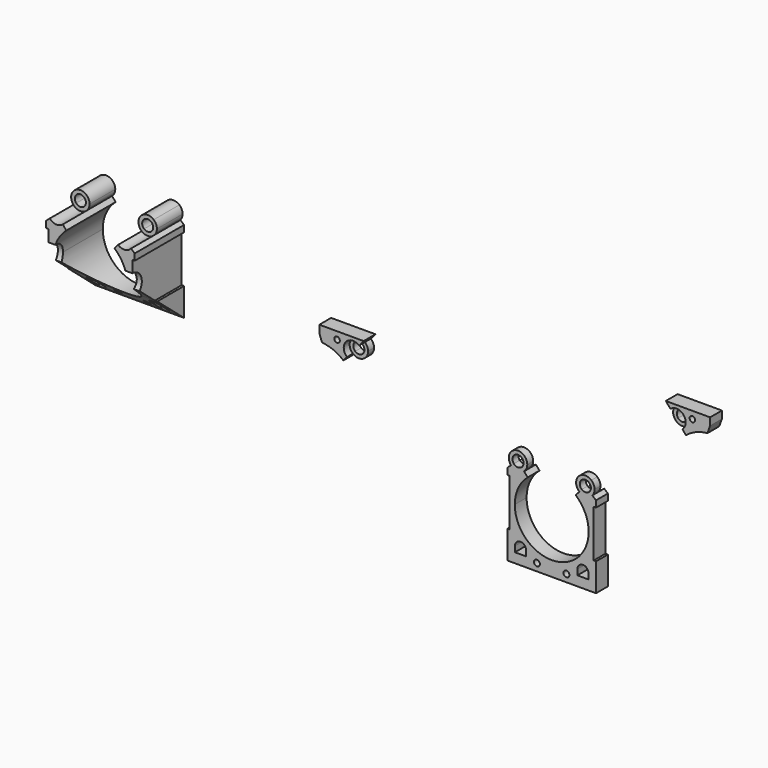
from build123d import *

# Parameters (mm, degrees)
F0_R      = 1.984375
F0_R_2    = 0.635
F1_DEPTH  = 3.175
F2_R      = 1.984375
F3_DEPTH  = 1.5875
F4_R      = 0.5953125
F5_DEPTH  = 3.175
F6_R      = 1.984375
F7_DEPTH  = 1.5875
F8_R      = 0.5953125
F9_DEPTH  = 3.175
F10_R     = 1.984375
F11_DEPTH = 1.5875
F12_R     = 1.984375
F12_R_2   = 0.635
F13_DEPTH = 25.4
F14_W     = 1.0636129141
F14_H     = 6.0325
F15_DEPTH = 25.4
F16_R     = 0.762
F17_R     = 1.984375
F18_DEPTH = 6.35
F19_R     = 1.984375
F20_DEPTH = 6.35
F21_R     = 1.984375
F21_R_2   = 0.635
F22_DEPTH = 0.254
F23_R     = 1.190625
F23_R_2   = 0.4997959343
F24_DEPTH = 25.4
F26_DEPTH = 25.4


with BuildPart() as f1:
    # F0 (on Front) → F1 (new body)
    with BuildSketch(Plane.XZ):
        with BuildLine():
            ThreePointArc((5.1656565268, 6.0265992813), (7.2113211318, 3.3167384257), (7.9375, 0))
            Line((7.9375, 0), (9.017, 0))
            Line((9.017, 0), (9.017, 5.08))
            Line((9.017, 5.08), (9.525, 5.08))
            Line((9.525, 5.08), (9.525, 6.4717411117))
            Line((9.525, 6.4717411117), (8.7385689578, 7.1458248621))
            ThreePointArc((8.7385689578, 7.1458248621), (7.3841137525, 6.4587089991), (5.9405050058, 6.9305891735))
            Line((5.9405050058, 6.9305891735), (5.1656565268, 6.0265992813))
        make_face()
        with BuildLine():
            ThreePointArc((-7.9375, 0), (-7.2113211318, 3.3167384257), (-5.1656565268, 6.0265992813))
            Line((-5.1656565268, 6.0265992813), (-5.9405050058, 6.9305891735))
            ThreePointArc((-5.9405050058, 6.9305891735), (-7.3841137525, 6.4587089991), (-8.7385689578, 7.1458248621))
            Line((-8.7385689578, 7.1458248621), (-9.525, 6.4717411117))
            Line((-9.525, 6.4717411117), (-9.525, 5.08))
            Line((-9.525, 5.08), (-9.017, 5.08))
            Line((-9.017, 5.08), (-9.017, 0))
            Line((-9.017, 0), (-7.9375, 0))
        make_face()
        with BuildLine():
            ThreePointArc((7.9375, 0), (0, -7.9375), (-7.9375, 0))
            Line((-7.9375, 0), (-9.017, 0))
            Line((-9.017, 0), (-9.017, -5.08))
            Line((-9.017, -5.08), (-9.525, -5.08))
            Line((-9.525, -5.08), (-9.525, -11.1125))
            Line((-9.525, -11.1125), (9.525, -11.1125))
            Line((9.525, -11.1125), (9.525, -5.08))
            Line((9.525, -5.08), (9.017, -5.08))
            Line((9.017, -5.08), (9.017, 0))
            Line((9.017, 0), (7.9375, 0))
        make_face()
        with Locations((-6.7153534848, -7.8345790657)):
            Circle(F0_R, mode=Mode.SUBTRACT)
        with Locations((-3.175, -9.525)):
            Circle(F0_R_2, mode=Mode.SUBTRACT)
        with Locations((3.175, -9.525)):
            Circle(F0_R_2, mode=Mode.SUBTRACT)
        with Locations((6.7153534848, -7.8345790657)):
            Circle(F0_R, mode=Mode.SUBTRACT)
        with BuildLine():
            ThreePointArc((9.2162941375, 8.4372389938), (9.0347494205, 9.2664236002), (8.5233332692, 9.9438888141))
            Line((8.5233332692, 9.9438888141), (8.0067676166, 9.341228886))
            ThreePointArc((8.0067676166, 9.341228886), (8.3136173073, 8.9347497576), (8.4225441375, 8.4372389938))
            ThreePointArc((8.4225441375, 8.4372389938), (8.3485884834, 8.0241561176), (8.1359090297, 7.6623905148))
            Line((8.1359090297, 7.6623905148), (8.7385689578, 7.1458248621))
            ThreePointArc((8.7385689578, 7.1458248621), (9.093034714, 7.7487675334), (9.2162941375, 8.4372389938))
        make_face()
        with BuildLine():
            ThreePointArc((8.5233332692, 9.9438888141), (5.7252693172, 9.7286531255), (5.9405050058, 6.9305891735))
            Line((5.9405050058, 6.9305891735), (6.4570706585, 7.5332491016))
            ThreePointArc((6.4570706585, 7.5332491016), (6.3279292453, 9.2120874728), (8.0067676166, 9.341228886))
            Line((8.0067676166, 9.341228886), (8.5233332692, 9.9438888141))
        make_face()
        with BuildLine():
            Line((6.4570706585, 7.5332491016), (5.9405050058, 6.9305891735))
            ThreePointArc((5.9405050058, 6.9305891735), (7.3841137525, 6.4587089991), (8.7385689578, 7.1458248621))
            Line((8.7385689578, 7.1458248621), (8.1359090297, 7.6623905148))
            ThreePointArc((8.1359090297, 7.6623905148), (7.3232359065, 7.250120997), (6.4570706585, 7.5332491016))
        make_face()
        with BuildLine():
            Line((-6.4570706585, 7.5332491016), (-5.9405050058, 6.9305891735))
            ThreePointArc((-5.9405050058, 6.9305891735), (-5.4290888546, 7.6080543874), (-5.2475441375, 8.4372389938))
            ThreePointArc((-5.2475441375, 8.4372389938), (-6.4027345311, 10.2400692767), (-8.5233332692, 9.9438888141))
            Line((-8.5233332692, 9.9438888141), (-8.0067676166, 9.341228886))
            ThreePointArc((-8.0067676166, 9.341228886), (-6.7344083737, 9.5189371636), (-6.0412941375, 8.4372389938))
            ThreePointArc((-6.0412941375, 8.4372389938), (-6.1502209678, 7.9397282299), (-6.4570706585, 7.5332491016))
        make_face()
        with BuildLine():
            ThreePointArc((-8.5233332692, 9.9438888141), (-9.2104491322, 8.5894336088), (-8.7385689578, 7.1458248621))
            Line((-8.7385689578, 7.1458248621), (-8.1359090297, 7.6623905148))
            ThreePointArc((-8.1359090297, 7.6623905148), (-8.4190371343, 8.5285557628), (-8.0067676166, 9.341228886))
            Line((-8.0067676166, 9.341228886), (-8.5233332692, 9.9438888141))
        make_face()
        with BuildLine():
            ThreePointArc((-8.7385689578, 7.1458248621), (-7.3841137525, 6.4587089991), (-5.9405050058, 6.9305891735))
            Line((-5.9405050058, 6.9305891735), (-6.4570706585, 7.5332491016))
            ThreePointArc((-6.4570706585, 7.5332491016), (-7.3232359065, 7.250120997), (-8.1359090297, 7.6623905148))
            Line((-8.1359090297, 7.6623905148), (-8.7385689578, 7.1458248621))
        make_face()
        with Locations((-6.7153534848, -7.8345790657)):
            Circle(F0_R)
        with BuildLine():
            ThreePointArc((-7.9059784848, -7.8345790657), (-6.7153534848, -6.6439540657), (-5.5247284848, -7.8345790657))
            Line((-5.5247284848, -7.8345790657), (-5.5247284848, -9.0252040657))
            Line((-5.5247284848, -9.0252040657), (-6.7153534848, -9.0252040657))
            Line((-6.7153534848, -9.0252040657), (-7.9059784848, -9.0252040657))
            Line((-7.9059784848, -9.0252040657), (-7.9059784848, -7.8345790657))
        make_face(mode=Mode.SUBTRACT)
        with Locations((6.7153534848, -7.8345790657)):
            Circle(F0_R)
        with BuildLine():
            ThreePointArc((5.5247284848, -7.8345790657), (6.7153534848, -6.6439540657), (7.9059784848, -7.8345790657))
            Line((7.9059784848, -7.8345790657), (7.9059784848, -9.0252040657))
            Line((7.9059784848, -9.0252040657), (6.7153534848, -9.0252040657))
            Line((6.7153534848, -9.0252040657), (5.5247284848, -9.0252040657))
            Line((5.5247284848, -9.0252040657), (5.5247284848, -7.8345790657))
        make_face(mode=Mode.SUBTRACT)
    extrude(amount=F1_DEPTH)

    # F2 (on face) → F3 (cut)
    with BuildSketch(Plane(origin=(0, 0, 0), x_dir=(-1, 0, 0), z_dir=(0, 1, 0))):
        with Locations((-7.2319191375, 8.4372389938)):
            Circle(F2_R)
        with Locations((7.2319191375, 8.4372389938)):
            Circle(F2_R)
    extrude(amount=-F3_DEPTH, mode=Mode.SUBTRACT)


with BuildPart() as f5:
    # F4 (on Front) → F5 (new body)
    with BuildSketch(Plane.XZ):
        with BuildLine():
            ThreePointArc((-40.7239666141, 17.6864356248), (-40.9055113312, 18.5156202312), (-41.4169274824, 19.1930854451))
            Line((-41.4169274824, 19.1930854451), (-41.9334931351, 18.590425517))
            ThreePointArc((-41.9334931351, 18.590425517), (-41.6266434443, 18.1839463886), (-41.5177166141, 17.6864356248))
            ThreePointArc((-41.5177166141, 17.6864356248), (-41.5916722682, 17.2733527486), (-41.8043517219, 16.9115871457))
            Line((-41.8043517219, 16.9115871457), (-41.2016917938, 16.3950214931))
            ThreePointArc((-41.2016917938, 16.3950214931), (-40.8472260376, 16.9979641644), (-40.7239666141, 17.6864356248))
        make_face()
        with BuildLine():
            ThreePointArc((-41.4169274824, 19.1930854451), (-44.2149914344, 18.9778497565), (-43.9997557458, 16.1797858045))
            Line((-43.9997557458, 16.1797858045), (-43.4831900931, 16.7824457326))
            ThreePointArc((-43.4831900931, 16.7824457326), (-43.6123315063, 18.4612841038), (-41.9334931351, 18.590425517))
            Line((-41.9334931351, 18.590425517), (-41.4169274824, 19.1930854451))
        make_face()
        with BuildLine():
            Line((-43.4831900931, 16.7824457326), (-43.9997557458, 16.1797858045))
            ThreePointArc((-43.9997557458, 16.1797858045), (-42.5561469991, 15.7079056301), (-41.2016917938, 16.3950214931))
            Line((-41.2016917938, 16.3950214931), (-41.8043517219, 16.9115871457))
            ThreePointArc((-41.8043517219, 16.9115871457), (-42.6170248451, 16.499317628), (-43.4831900931, 16.7824457326))
        make_face()
        with BuildLine():
            Line((-49.9402607516, 20.361696631), (-49.9402607516, 18.774196631))
            Line((-49.9402607516, 18.774196631), (-49.3545827933, 17.1650596654))
            ThreePointArc((-49.3545827933, 17.1650596654), (-46.9134156165, 16.5869152668), (-44.7746042248, 15.2757959123))
            Line((-44.7746042248, 15.2757959123), (-43.9997557458, 16.1797858045))
            ThreePointArc((-43.9997557458, 16.1797858045), (-44.2149914344, 18.9778497565), (-41.4169274824, 19.1930854451))
            Line((-41.4169274824, 19.1930854451), (-40.4152607516, 20.361696631))
            Line((-40.4152607516, 20.361696631), (-49.9402607516, 20.361696631))
        make_face()
        with Locations((-46.1302607516, 18.774196631)):
            Circle(F4_R, mode=Mode.SUBTRACT)
    extrude(amount=F5_DEPTH)

    # F6 (on face) → F7 (cut)
    with BuildSketch(Plane.XZ.offset(3.175)):
        with Locations((-42.7083416141, 17.6864356248)):
            Circle(F6_R)
    extrude(amount=-F7_DEPTH, mode=Mode.SUBTRACT)


with BuildPart() as f9:
    # F8 (on Front) → F9 (new body)
    with BuildSketch(Plane.XZ):
        with BuildLine():
            ThreePointArc((25.5200833788, 28.9785641922), (24.8329675158, 27.6241089868), (25.3048476902, 26.1805002402))
            Line((25.3048476902, 26.1805002402), (25.9075076183, 26.6970658928))
            ThreePointArc((25.9075076183, 26.6970658928), (25.6243795137, 27.5632311409), (26.0366490315, 28.3759042641))
            Line((26.0366490315, 28.3759042641), (25.5200833788, 28.9785641922))
        make_face()
        with BuildLine():
            ThreePointArc((25.3048476902, 26.1805002402), (26.6593028955, 25.4933843772), (28.1029116422, 25.9652645515))
            Line((28.1029116422, 25.9652645515), (27.5863459895, 26.5679244797))
            ThreePointArc((27.5863459895, 26.5679244797), (26.7201807415, 26.2847963751), (25.9075076183, 26.6970658928))
            Line((25.9075076183, 26.6970658928), (25.3048476902, 26.1805002402))
        make_face()
        with BuildLine():
            Line((27.5863459895, 26.5679244797), (28.1029116422, 25.9652645515))
            ThreePointArc((28.1029116422, 25.9652645515), (28.6143277934, 26.6427297655), (28.7958725105, 27.4719143719))
            ThreePointArc((28.7958725105, 27.4719143719), (27.6406821169, 29.2747446548), (25.5200833788, 28.9785641922))
            Line((25.5200833788, 28.9785641922), (26.0366490315, 28.3759042641))
            ThreePointArc((26.0366490315, 28.3759042641), (27.3090082743, 28.5536125416), (28.0021225105, 27.4719143719))
            ThreePointArc((28.0021225105, 27.4719143719), (27.8931956802, 26.974403608), (27.5863459895, 26.5679244797))
        make_face()
        with BuildLine():
            ThreePointArc((28.8777601212, 25.0612746594), (31.0165715129, 26.3723940139), (33.4577386897, 26.9505384125))
            Line((33.4577386897, 26.9505384125), (34.043416648, 28.5596753781))
            Line((34.043416648, 28.5596753781), (34.043416648, 30.1471753781))
            Line((34.043416648, 30.1471753781), (24.518416648, 30.1471753781))
            Line((24.518416648, 30.1471753781), (25.5200833788, 28.9785641922))
            ThreePointArc((25.5200833788, 28.9785641922), (27.6406821169, 29.2747446548), (28.7958725105, 27.4719143719))
            ThreePointArc((28.7958725105, 27.4719143719), (28.6143277934, 26.6427297655), (28.1029116422, 25.9652645515))
            Line((28.1029116422, 25.9652645515), (28.8777601212, 25.0612746594))
        make_face()
        with Locations((30.233416648, 28.5596753781)):
            Circle(F8_R, mode=Mode.SUBTRACT)
    extrude(amount=F9_DEPTH)

    # F10 (on face) → F11 (cut)
    with BuildSketch(Plane.XZ.offset(3.175)):
        with Locations((26.8114975105, 27.4719143719)):
            Circle(F10_R)
    extrude(amount=-F11_DEPTH, mode=Mode.SUBTRACT)


with BuildPart() as f13:
    # F12 (on Front) → F13 (new body)
    with BuildSketch(Plane.XZ):
        with BuildLine():
            ThreePointArc((-99.605339695, 31.1301465823), (-100.292455558, 29.7756913769), (-99.8205753836, 28.3320826302))
            Line((-99.8205753836, 28.3320826302), (-99.2179154555, 28.8486482829))
            ThreePointArc((-99.2179154555, 28.8486482829), (-99.5010435601, 29.7148135309), (-99.0887740423, 30.5274866541))
            Line((-99.0887740423, 30.5274866541), (-99.605339695, 31.1301465823))
        make_face()
        with BuildLine():
            ThreePointArc((-81.8657122882, 29.6234967619), (-82.0472570053, 30.4526813684), (-82.5586731565, 31.1301465823))
            Line((-82.5586731565, 31.1301465823), (-83.0752388092, 30.5274866541))
            ThreePointArc((-83.0752388092, 30.5274866541), (-82.7683891185, 30.1210075258), (-82.6594622882, 29.6234967619))
            ThreePointArc((-82.6594622882, 29.6234967619), (-82.7334179424, 29.2104138857), (-82.946097396, 28.8486482829))
            Line((-82.946097396, 28.8486482829), (-82.3434374679, 28.3320826302))
            ThreePointArc((-82.3434374679, 28.3320826302), (-81.9889717118, 28.9350253016), (-81.8657122882, 29.6234967619))
        make_face()
        with BuildLine():
            ThreePointArc((-99.0195064258, 21.1862577682), (-98.2933275575, 24.5029961938), (-96.2476629526, 27.2128570494))
            Line((-96.2476629526, 27.2128570494), (-97.0225114316, 28.1168469416))
            ThreePointArc((-97.0225114316, 28.1168469416), (-98.4661201783, 27.6449667673), (-99.8205753836, 28.3320826302))
            Line((-99.8205753836, 28.3320826302), (-100.6070064258, 27.6579988798))
            Line((-100.6070064258, 27.6579988798), (-100.6070064258, 26.2662577682))
            Line((-100.6070064258, 26.2662577682), (-100.0990064258, 26.2662577682))
            Line((-100.0990064258, 26.2662577682), (-100.0990064258, 21.1862577682))
            Line((-100.0990064258, 21.1862577682), (-99.0195064258, 21.1862577682))
        make_face()
        with BuildLine():
            ThreePointArc((-85.916349899, 27.2128570494), (-83.870685294, 24.5029961938), (-83.1445064258, 21.1862577682))
            Line((-83.1445064258, 21.1862577682), (-82.0650064258, 21.1862577682))
            Line((-82.0650064258, 21.1862577682), (-82.0650064258, 26.2662577682))
            Line((-82.0650064258, 26.2662577682), (-81.5570064258, 26.2662577682))
            Line((-81.5570064258, 26.2662577682), (-81.5570064258, 27.6579988798))
            Line((-81.5570064258, 27.6579988798), (-82.3434374679, 28.3320826302))
            ThreePointArc((-82.3434374679, 28.3320826302), (-83.6978926733, 27.6449667673), (-85.1415014199, 28.1168469416))
            Line((-85.1415014199, 28.1168469416), (-85.916349899, 27.2128570494))
        make_face()
        with BuildLine():
            ThreePointArc((-99.8205753836, 28.3320826302), (-98.4661201783, 27.6449667673), (-97.0225114316, 28.1168469416))
            Line((-97.0225114316, 28.1168469416), (-97.5390770843, 28.7195068697))
            ThreePointArc((-97.5390770843, 28.7195068697), (-98.4052423323, 28.4363787651), (-99.2179154555, 28.8486482829))
            Line((-99.2179154555, 28.8486482829), (-99.8205753836, 28.3320826302))
        make_face()
        with BuildLine():
            Line((-97.5390770843, 28.7195068697), (-97.0225114316, 28.1168469416))
            ThreePointArc((-97.0225114316, 28.1168469416), (-96.5110952803, 28.7943121555), (-96.3295505633, 29.6234967619))
            ThreePointArc((-96.3295505633, 29.6234967619), (-97.4847409569, 31.4263270449), (-99.605339695, 31.1301465823))
            Line((-99.605339695, 31.1301465823), (-99.0887740423, 30.5274866541))
            ThreePointArc((-99.0887740423, 30.5274866541), (-97.8164147994, 30.7051949317), (-97.1233005633, 29.6234967619))
            ThreePointArc((-97.1233005633, 29.6234967619), (-97.2322273935, 29.1259859981), (-97.5390770843, 28.7195068697))
        make_face()
        with BuildLine():
            ThreePointArc((-82.5586731565, 31.1301465823), (-85.3567371086, 30.9149108936), (-85.1415014199, 28.1168469416))
            Line((-85.1415014199, 28.1168469416), (-84.6249357673, 28.7195068697))
            ThreePointArc((-84.6249357673, 28.7195068697), (-84.7540771804, 30.398345241), (-83.0752388092, 30.5274866541))
            Line((-83.0752388092, 30.5274866541), (-82.5586731565, 31.1301465823))
        make_face()
        with BuildLine():
            Line((-84.6249357673, 28.7195068697), (-85.1415014199, 28.1168469416))
            ThreePointArc((-85.1415014199, 28.1168469416), (-83.6978926733, 27.6449667673), (-82.3434374679, 28.3320826302))
            Line((-82.3434374679, 28.3320826302), (-82.946097396, 28.8486482829))
            ThreePointArc((-82.946097396, 28.8486482829), (-83.7587705192, 28.4363787651), (-84.6249357673, 28.7195068697))
        make_face()
        with BuildLine():
            ThreePointArc((-83.1445064258, 21.1862577682), (-91.0820064258, 13.2487577682), (-99.0195064258, 21.1862577682))
            Line((-99.0195064258, 21.1862577682), (-100.0990064258, 21.1862577682))
            Line((-100.0990064258, 21.1862577682), (-100.0990064258, 16.1062577682))
            Line((-100.0990064258, 16.1062577682), (-100.6070064258, 16.1062577682))
            Line((-100.6070064258, 16.1062577682), (-100.6070064258, 10.0737577682))
            Line((-100.6070064258, 10.0737577682), (-81.5570064258, 10.0737577682))
            Line((-81.5570064258, 10.0737577682), (-81.5570064258, 16.1062577682))
            Line((-81.5570064258, 16.1062577682), (-82.0650064258, 16.1062577682))
            Line((-82.0650064258, 16.1062577682), (-82.0650064258, 21.1862577682))
            Line((-82.0650064258, 21.1862577682), (-83.1445064258, 21.1862577682))
        make_face()
        with Locations((-97.7973599106, 13.3516787025)):
            Circle(F12_R, mode=Mode.SUBTRACT)
        with Locations((-94.2570064258, 11.6612577682)):
            Circle(F12_R_2, mode=Mode.SUBTRACT)
        with Locations((-87.9070064258, 11.6612577682)):
            Circle(F12_R_2, mode=Mode.SUBTRACT)
        with Locations((-84.3666529409, 13.3516787025)):
            Circle(F12_R, mode=Mode.SUBTRACT)
        with Locations((-84.3666529409, 13.3516787025)):
            Circle(F12_R)
        with BuildLine():
            ThreePointArc((-85.5572779409, 13.3516787025), (-84.3666529409, 14.5423037025), (-83.1760279409, 13.3516787025))
            Line((-83.1760279409, 13.3516787025), (-83.1760279409, 12.1610537025))
            Line((-83.1760279409, 12.1610537025), (-84.3666529409, 12.1610537025))
            Line((-84.3666529409, 12.1610537025), (-85.5572779409, 12.1610537025))
            Line((-85.5572779409, 12.1610537025), (-85.5572779409, 13.3516787025))
        make_face(mode=Mode.SUBTRACT)
        with Locations((-97.7973599106, 13.3516787025)):
            Circle(F12_R)
        with BuildLine():
            ThreePointArc((-98.9879849106, 13.3516787025), (-97.7973599106, 14.5423037025), (-96.6067349106, 13.3516787025))
            Line((-96.6067349106, 13.3516787025), (-96.6067349106, 12.1610537025))
            Line((-96.6067349106, 12.1610537025), (-97.7973599106, 12.1610537025))
            Line((-97.7973599106, 12.1610537025), (-98.9879849106, 12.1610537025))
            Line((-98.9879849106, 12.1610537025), (-98.9879849106, 13.3516787025))
        make_face(mode=Mode.SUBTRACT)
    extrude(amount=F13_DEPTH)

    # F14 (on face) → F15 (cut)
    with BuildSketch(Plane(origin=(-100.6070064258, 0, 0), x_dir=(0, -1, 0), z_dir=(-1, 0, 0))):
        with Locations((25.931806457, 13.0900077682)):
            Rectangle(F14_W, F14_H)
        Polygon((13.2433617977, 32.6162577682), (13.2433617977, 26.2662577682), (19.2974700481, 26.2662577682), (26.4636129141, 32.279365604), (26.4636129141, 32.6162577682), align=None)
        Polygon((7.1892535473, 16.1062577682), (0, 10.0737577682), (25.4, 10.0737577682), (25.4, 16.1062577682), (13.2433617977, 16.1062577682), align=None)
        with BuildLine():
            Line((13.2433617977, 16.1062577682), (25.4, 16.1062577682))
            Line((25.4, 16.1062577682), (26.4636129141, 16.1062577682))
            Line((26.4636129141, 16.1062577682), (26.4636129141, 26.2662577682))
            Line((26.4636129141, 26.2662577682), (19.2974700481, 26.2662577682))
            Line((19.2974700481, 26.2662577682), (17.1348675687, 24.4516188254))
            ThreePointArc((17.1348675687, 24.4516188254), (18.0170003113, 22.9237200962), (18.3233617977, 21.1862577682))
            ThreePointArc((18.3233617977, 21.1862577682), (16.8354642461, 17.5941553197), (13.2433617977, 16.1062577682))
        make_face()
        with BuildLine():
            ThreePointArc((17.1348675687, 24.4516188254), (15.3902625673, 25.7903013263), (13.2433617977, 26.2662577682))
            Line((13.2433617977, 26.2662577682), (13.2433617977, 23.7262577682))
            ThreePointArc((13.2433617977, 23.7262577682), (14.3168121825, 23.4882795472), (15.1891146832, 22.8189382968))
            Line((15.1891146832, 22.8189382968), (17.1348675687, 24.4516188254))
        make_face()
        with BuildLine():
            Line((19.2974700481, 26.2662577682), (13.2433617977, 26.2662577682))
            ThreePointArc((13.2433617977, 26.2662577682), (15.3902625673, 25.7903013263), (17.1348675687, 24.4516188254))
            Line((17.1348675687, 24.4516188254), (19.2974700481, 26.2662577682))
        make_face()
        with BuildLine():
            ThreePointArc((15.1891146832, 22.8189382968), (14.3168121825, 23.4882795472), (13.2433617977, 23.7262577682))
            Line((13.2433617977, 23.7262577682), (13.2433617977, 21.1862577682))
            Line((13.2433617977, 21.1862577682), (15.1891146832, 22.8189382968))
        make_face()
        with BuildLine():
            ThreePointArc((13.2433617977, 23.7262577682), (10.9413400186, 22.259708153), (11.2976089122, 19.5535772396))
            Line((11.2976089122, 19.5535772396), (13.2433617977, 21.1862577682))
            Line((13.2433617977, 21.1862577682), (13.2433617977, 23.7262577682))
        make_face()
        with BuildLine():
            Line((13.2433617977, 21.1862577682), (11.2976089122, 19.5535772396))
            ThreePointArc((11.2976089122, 19.5535772396), (14.1120929618, 18.7994385114), (15.7833617977, 21.1862577682))
            ThreePointArc((15.7833617977, 21.1862577682), (15.6301810545, 22.0549889322), (15.1891146832, 22.8189382968))
            Line((15.1891146832, 22.8189382968), (13.2433617977, 21.1862577682))
        make_face()
        with BuildLine():
            Line((11.2976089122, 19.5535772396), (9.3518560267, 17.9208967109))
            ThreePointArc((9.3518560267, 17.9208967109), (11.0964610281, 16.58221421), (13.2433617977, 16.1062577682))
            ThreePointArc((13.2433617977, 16.1062577682), (16.8354642461, 17.5941553197), (18.3233617977, 21.1862577682))
            ThreePointArc((18.3233617977, 21.1862577682), (18.0170003113, 22.9237200962), (17.1348675687, 24.4516188254))
            Line((17.1348675687, 24.4516188254), (15.1891146832, 22.8189382968))
            ThreePointArc((15.1891146832, 22.8189382968), (15.6301810545, 22.0549889322), (15.7833617977, 21.1862577682))
            ThreePointArc((15.7833617977, 21.1862577682), (14.1120929618, 18.7994385114), (11.2976089122, 19.5535772396))
        make_face()
        with BuildLine():
            Line((9.3518560267, 17.9208967109), (7.1892535473, 16.1062577682))
            Line((7.1892535473, 16.1062577682), (13.2433617977, 16.1062577682))
            ThreePointArc((13.2433617977, 16.1062577682), (11.0964610281, 16.58221421), (9.3518560267, 17.9208967109))
        make_face()
        Polygon((19.2974700481, 26.2662577682), (26.4636129141, 26.2662577682), (26.4636129141, 32.279365604), align=None)
    extrude(amount=-F15_DEPTH, mode=Mode.SUBTRACT)

    # F16
    f16_edges = [f13.edges().sort_by_distance(p)[0] for p in [
        (-97.79736, -2.487542, 12.161054),
        (-84.366653, -2.487542, 12.161054),
    ]]
    fillet(f16_edges, radius=F16_R)

    # F17 (on face) → F18 (cut)
    with BuildSketch(Plane.XZ.offset(13.2433617977)):
        with Locations((-98.3139255633, 29.6234967619)):
            Circle(F17_R)
    extrude(amount=-F18_DEPTH, mode=Mode.SUBTRACT)

    # F19 (on face) → F20 (cut)
    with BuildSketch(Plane.XZ.offset(13.2433617977)):
        with Locations((-83.8500872882, 29.6234967619)):
            Circle(F19_R)
    extrude(amount=-F20_DEPTH, mode=Mode.SUBTRACT)


with BuildPart() as f22:
    # F21 (on Front) → F22 (new body)
    with BuildSketch(Plane.XZ):
        with BuildLine():
            ThreePointArc((-142.8711570808, 31.2947846634), (-143.5582729437, 29.9403294581), (-143.0863927694, 28.4967207114))
            Line((-143.0863927694, 28.4967207114), (-142.4837328413, 29.0132863641))
            ThreePointArc((-142.4837328413, 29.0132863641), (-142.7668609459, 29.8794516121), (-142.3545914281, 30.6921247353))
            Line((-142.3545914281, 30.6921247353), (-142.8711570808, 31.2947846634))
        make_face()
        with BuildLine():
            ThreePointArc((-125.131529674, 29.7881348431), (-125.3130743911, 30.6173194495), (-125.8244905423, 31.2947846634))
            Line((-125.8244905423, 31.2947846634), (-126.341056195, 30.6921247353))
            ThreePointArc((-126.341056195, 30.6921247353), (-126.0342065042, 30.2856456069), (-125.925279674, 29.7881348431))
            ThreePointArc((-125.925279674, 29.7881348431), (-125.9992353281, 29.3750519669), (-126.2119147818, 29.0132863641))
            Line((-126.2119147818, 29.0132863641), (-125.6092548537, 28.4967207114))
            ThreePointArc((-125.6092548537, 28.4967207114), (-125.2547890976, 29.0996633827), (-125.131529674, 29.7881348431))
        make_face()
        with BuildLine():
            ThreePointArc((-142.2853238115, 21.3508958493), (-141.5591449433, 24.667634275), (-139.5134803384, 27.3774951306))
            Line((-139.5134803384, 27.3774951306), (-140.2883288174, 28.2814850228))
            ThreePointArc((-140.2883288174, 28.2814850228), (-141.731937564, 27.8096048484), (-143.0863927694, 28.4967207114))
            Line((-143.0863927694, 28.4967207114), (-143.8728238115, 27.822636961))
            Line((-143.8728238115, 27.822636961), (-143.8728238115, 26.4308958493))
            Line((-143.8728238115, 26.4308958493), (-143.3648238115, 26.4308958493))
            Line((-143.3648238115, 26.4308958493), (-143.3648238115, 21.3508958493))
            Line((-143.3648238115, 21.3508958493), (-142.2853238115, 21.3508958493))
        make_face()
        with BuildLine():
            ThreePointArc((-129.1821672847, 27.3774951306), (-127.1365026798, 24.667634275), (-126.4103238115, 21.3508958493))
            Line((-126.4103238115, 21.3508958493), (-125.3308238115, 21.3508958493))
            Line((-125.3308238115, 21.3508958493), (-125.3308238115, 26.4308958493))
            Line((-125.3308238115, 26.4308958493), (-124.8228238115, 26.4308958493))
            Line((-124.8228238115, 26.4308958493), (-124.8228238115, 27.822636961))
            Line((-124.8228238115, 27.822636961), (-125.6092548537, 28.4967207114))
            ThreePointArc((-125.6092548537, 28.4967207114), (-126.963710059, 27.8096048484), (-128.4073188057, 28.2814850228))
            Line((-128.4073188057, 28.2814850228), (-129.1821672847, 27.3774951306))
        make_face()
        with BuildLine():
            ThreePointArc((-143.0863927694, 28.4967207114), (-141.731937564, 27.8096048484), (-140.2883288174, 28.2814850228))
            Line((-140.2883288174, 28.2814850228), (-140.8048944701, 28.8841449509))
            ThreePointArc((-140.8048944701, 28.8841449509), (-141.6710597181, 28.6010168463), (-142.4837328413, 29.0132863641))
            Line((-142.4837328413, 29.0132863641), (-143.0863927694, 28.4967207114))
        make_face()
        with BuildLine():
            Line((-140.8048944701, 28.8841449509), (-140.2883288174, 28.2814850228))
            ThreePointArc((-140.2883288174, 28.2814850228), (-139.7769126661, 28.9589502367), (-139.5953679491, 29.7881348431))
            ThreePointArc((-139.5953679491, 29.7881348431), (-140.7505583427, 31.590965126), (-142.8711570808, 31.2947846634))
            Line((-142.8711570808, 31.2947846634), (-142.3545914281, 30.6921247353))
            ThreePointArc((-142.3545914281, 30.6921247353), (-141.0822321852, 30.8698330129), (-140.3891179491, 29.7881348431))
            ThreePointArc((-140.3891179491, 29.7881348431), (-140.4980447793, 29.2906240792), (-140.8048944701, 28.8841449509))
        make_face()
        with BuildLine():
            ThreePointArc((-125.8244905423, 31.2947846634), (-128.6225544943, 31.0795489748), (-128.4073188057, 28.2814850228))
            Line((-128.4073188057, 28.2814850228), (-127.890753153, 28.8841449509))
            ThreePointArc((-127.890753153, 28.8841449509), (-128.0198945662, 30.5629833221), (-126.341056195, 30.6921247353))
            Line((-126.341056195, 30.6921247353), (-125.8244905423, 31.2947846634))
        make_face()
        with BuildLine():
            Line((-127.890753153, 28.8841449509), (-128.4073188057, 28.2814850228))
            ThreePointArc((-128.4073188057, 28.2814850228), (-126.963710059, 27.8096048484), (-125.6092548537, 28.4967207114))
            Line((-125.6092548537, 28.4967207114), (-126.2119147818, 29.0132863641))
            ThreePointArc((-126.2119147818, 29.0132863641), (-127.024587905, 28.6010168463), (-127.890753153, 28.8841449509))
        make_face()
        with BuildLine():
            ThreePointArc((-126.4103238115, 21.3508958493), (-134.3478238115, 13.4133958493), (-142.2853238115, 21.3508958493))
            Line((-142.2853238115, 21.3508958493), (-143.3648238115, 21.3508958493))
            Line((-143.3648238115, 21.3508958493), (-143.3648238115, 16.2708958493))
            Line((-143.3648238115, 16.2708958493), (-143.8728238115, 16.2708958493))
            Line((-143.8728238115, 16.2708958493), (-143.8728238115, 10.2383958493))
            Line((-143.8728238115, 10.2383958493), (-124.8228238115, 10.2383958493))
            Line((-124.8228238115, 10.2383958493), (-124.8228238115, 16.2708958493))
            Line((-124.8228238115, 16.2708958493), (-125.3308238115, 16.2708958493))
            Line((-125.3308238115, 16.2708958493), (-125.3308238115, 21.3508958493))
            Line((-125.3308238115, 21.3508958493), (-126.4103238115, 21.3508958493))
        make_face()
        with Locations((-141.0631772964, 13.5163167837)):
            Circle(F21_R, mode=Mode.SUBTRACT)
        with Locations((-137.5228238115, 11.8258958493)):
            Circle(F21_R_2, mode=Mode.SUBTRACT)
        with Locations((-131.1728238115, 11.8258958493)):
            Circle(F21_R_2, mode=Mode.SUBTRACT)
        with Locations((-127.6324703267, 13.5163167837)):
            Circle(F21_R, mode=Mode.SUBTRACT)
        with Locations((-141.0631772964, 13.5163167837)):
            Circle(F21_R)
        with BuildLine():
            ThreePointArc((-142.2538022964, 13.5163167837), (-141.0631772964, 14.7069417837), (-139.8725522964, 13.5163167837))
            Line((-139.8725522964, 13.5163167837), (-139.8725522964, 12.3256917837))
            Line((-139.8725522964, 12.3256917837), (-141.0631772964, 12.3256917837))
            Line((-141.0631772964, 12.3256917837), (-142.2538022964, 12.3256917837))
            Line((-142.2538022964, 12.3256917837), (-142.2538022964, 13.5163167837))
        make_face(mode=Mode.SUBTRACT)
        with Locations((-127.6324703267, 13.5163167837)):
            Circle(F21_R)
        with BuildLine():
            ThreePointArc((-128.8230953267, 13.5163167837), (-127.6324703267, 14.7069417837), (-126.4418453267, 13.5163167837))
            Line((-126.4418453267, 13.5163167837), (-126.4418453267, 12.3256917837))
            Line((-126.4418453267, 12.3256917837), (-127.6324703267, 12.3256917837))
            Line((-127.6324703267, 12.3256917837), (-128.8230953267, 12.3256917837))
            Line((-128.8230953267, 12.3256917837), (-128.8230953267, 13.5163167837))
        make_face(mode=Mode.SUBTRACT)
    extrude(amount=F22_DEPTH)

    # F23 (on face) → F24 (join)
    with BuildSketch(Plane.XZ.offset(0.254)):
        with BuildLine():
            ThreePointArc((-129.1821672847, 27.3774951306), (-134.3478238115, 13.4133958493), (-139.5134803384, 27.3774951306))
            Line((-139.5134803384, 27.3774951306), (-140.2883288174, 28.2814850228))
            ThreePointArc((-140.2883288174, 28.2814850228), (-139.6935772249, 30.4046760028), (-141.4275483341, 31.7666648378))
            Line((-141.4275483341, 31.7666648378), (-141.731937564, 31.7666648378))
            ThreePointArc((-141.731937564, 31.7666648378), (-143.4130663964, 30.5475222792), (-143.0863927694, 28.4967207114))
            Line((-143.0863927694, 28.4967207114), (-143.8728238115, 27.822636961))
            Line((-143.8728238115, 27.822636961), (-143.8728238115, 26.4308958493))
            Line((-143.8728238115, 26.4308958493), (-143.3648238115, 26.4308958493))
            Line((-143.3648238115, 26.4308958493), (-143.3648238115, 16.2708958493))
            Line((-143.3648238115, 16.2708958493), (-143.8728238115, 16.2708958493))
            Line((-143.8728238115, 16.2708958493), (-143.8728238115, 10.2383958493))
            Line((-143.8728238115, 10.2383958493), (-124.8228238115, 10.2383958493))
            Line((-124.8228238115, 10.2383958493), (-124.8228238115, 16.2708958493))
            Line((-124.8228238115, 16.2708958493), (-125.3308238115, 16.2708958493))
            Line((-125.3308238115, 16.2708958493), (-125.3308238115, 26.4308958493))
            Line((-125.3308238115, 26.4308958493), (-124.8228238115, 26.4308958493))
            Line((-124.8228238115, 26.4308958493), (-124.8228238115, 27.822636961))
            Line((-124.8228238115, 27.822636961), (-125.6092548537, 28.4967207114))
            ThreePointArc((-125.6092548537, 28.4967207114), (-125.2825812267, 30.5475222792), (-126.963710059, 31.7666648378))
            Line((-126.963710059, 31.7666648378), (-127.268099289, 31.7666648378))
            ThreePointArc((-127.268099289, 31.7666648378), (-129.0020703982, 30.4046760028), (-128.4073188057, 28.2814850228))
            Line((-128.4073188057, 28.2814850228), (-129.1821672847, 27.3774951306))
        make_face()
        with Locations((-141.0631772964, 13.5163167837)):
            Circle(F23_R, mode=Mode.SUBTRACT)
        with Locations((-137.5228238115, 11.8258958493)):
            Circle(F23_R_2, mode=Mode.SUBTRACT)
        with Locations((-131.1728238115, 11.8258958493)):
            Circle(F23_R_2, mode=Mode.SUBTRACT)
        with Locations((-127.6324703267, 13.5163167837)):
            Circle(F23_R, mode=Mode.SUBTRACT)
        with Locations((-141.5797429491, 29.7881348431)):
            Circle(F23_R, mode=Mode.SUBTRACT)
        with Locations((-127.115904674, 29.7881348431)):
            Circle(F23_R, mode=Mode.SUBTRACT)
        with BuildLine():
            Line((-141.731937564, 31.7666648378), (-141.4275483341, 31.7666648378))
            ThreePointArc((-141.4275483341, 31.7666648378), (-141.5797429491, 31.7725098431), (-141.731937564, 31.7666648378))
        make_face()
        with BuildLine():
            ThreePointArc((-126.963710059, 31.7666648378), (-127.115904674, 31.7725098431), (-127.268099289, 31.7666648378))
            Line((-127.268099289, 31.7666648378), (-126.963710059, 31.7666648378))
        make_face()
    extrude(amount=F24_DEPTH)

    # F25 (on face) → F26 (cut)
    with BuildSketch(Plane(origin=(-143.8728238115, 0, 0), x_dir=(0, -1, 0), z_dir=(-1, 0, 0))):
        Polygon((13.1163988262, 13.6671038345), (0.5871517351, 10.2383958493), (5.3383894265, 7.4371458031), (32.5991809368, 7.4371458031), (32.5991809368, 35.7551388443), (2.9219202697, 35.7551388443), (0, 33.6687417596), (0, 32.1304388344), (23.7000267953, 31.1865024269), (20.9699235857, 21.4451141655), align=None)
    extrude(amount=-F26_DEPTH, mode=Mode.SUBTRACT)


solid = Compound([f1.part, f5.part, f9.part, f13.part])
